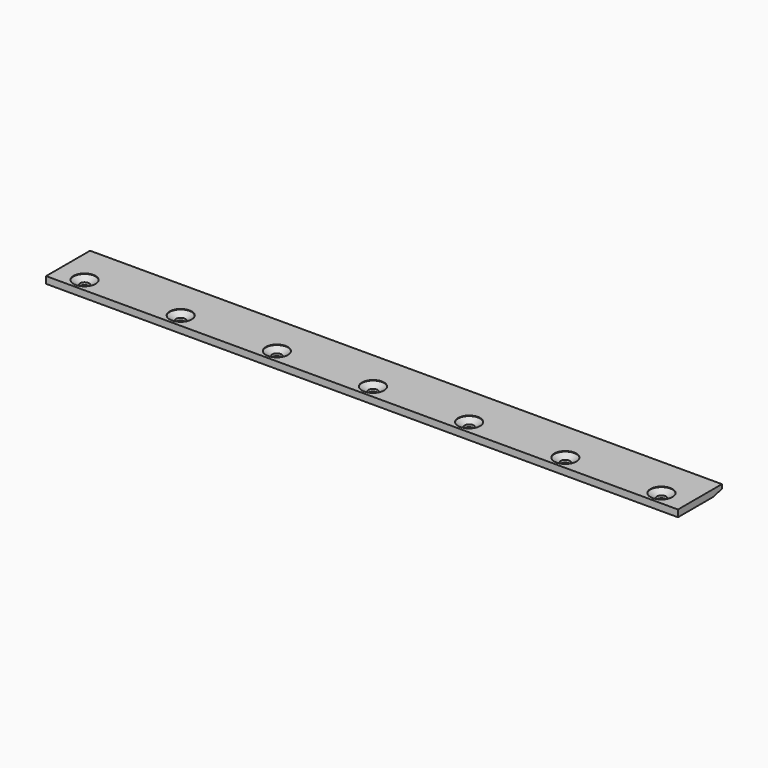
from build123d import *

# Parameters (mm, degrees)
F0_W     = 230
F0_H     = 20
F1_DEPTH = 2.5
F3_D     = 3.3
F4_SIZE2 = 4
F4_SIZE  = 1
F6_D     = 8
F6_DEPTH = 0.2
F6_TIP   = 2.4034424761


with BuildPart() as f1:
    # F0 (on Top) → F1 (new body)
    with BuildSketch(Plane.XY):
        Rectangle(F0_W, F0_H)
    extrude(amount=F1_DEPTH)

    # F3 (through all)
    with Locations(Plane.XY.offset(2.5)):
        with Locations((-105, -5), (-70, -5), (-35, -5), (0, -5), (35, -5), (105, -5), (70, -5)):
            Hole(F3_D / 2)

    # F4
    f4_edges = [f1.edges().sort_by_distance(p)[0] for p in [
        (0, 10, 0),
    ]]
    f4_side = f1.faces().sort_by_distance((0, 10, 1.25))[0]
    chamfer(f4_edges, length=F4_SIZE, length2=F4_SIZE2, reference=f4_side)

    # F6
    with Locations(Plane.XY.offset(2.5)):
        with Locations((-105, -5), (-70, -5), (-35, -5), (0, -5), (105, -5), (70, -5), (35, -5)):
            Hole(F6_D / 2, depth=F6_DEPTH)
            with Locations((0, 0, -(F6_DEPTH + F6_TIP / 2))):  # 118° drill point
                Cone(0, F6_D / 2, F6_TIP, mode=Mode.SUBTRACT)


solid = f1.part
